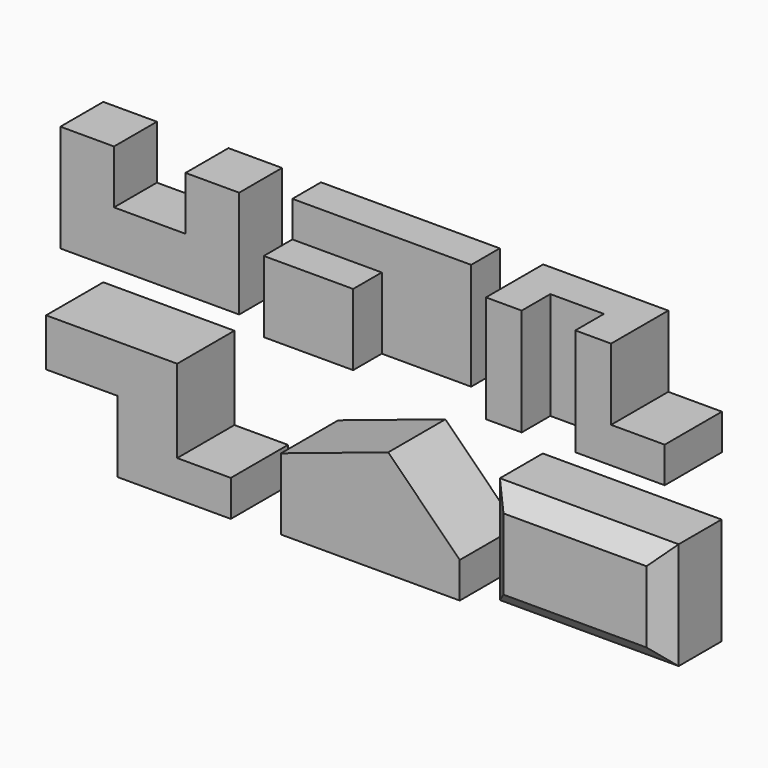
from build123d import *

# Parameters (mm, degrees)
F1_DEPTH  = 76.2
F2_W      = 254
F2_H      = 152.4
F3_DEPTH  = 101.6
F5_DEPTH  = 50.8
F6_W      = 76.2
F6_H      = 101.6
F7_DEPTH  = 101.6
F8_W      = 76.2
F8_H      = 152.4
F9_DEPTH  = 50.8
F11_DEPTH = 101.6
F13_DEPTH = 101.6
F14_W     = 254
F14_H     = 152.4
F15_DEPTH = 101.6
F16_SIZE  = 25.4


with BuildPart() as f1:
    # F0 (on Front) → F1 (new body)
    with BuildSketch(Plane.XZ):
        Polygon((0, 152.4), (0, 0), (254, 0), (254, 152.4), (177.8, 152.4), (177.8, 76.2), (76.2, 76.2), (76.2, 152.4), align=None)
    extrude(amount=F1_DEPTH)


with BuildPart() as f3:
    # F2 (on Front) → F3 (new body)
    with BuildSketch(Plane.XZ):
        with Locations((436.282601, 76.2)):
            Rectangle(F2_W, F2_H)
    extrude(amount=F3_DEPTH)

    # F4 (on face) → F5 (cut)
    with BuildSketch(Plane.XZ.offset(101.6)):
        Polygon((309.282601, 152.4), (309.282601, 101.6), (436.282601, 101.6), (436.282601, 0), (563.282601, 0), (563.282601, 152.4), align=None)
    extrude(amount=-F5_DEPTH, mode=Mode.SUBTRACT)


with BuildPart() as f7:
    # F6 (on Front) → F7 (new body)
    with BuildSketch(Plane.XZ):
        Polygon((624.930065, 152.4), (624.930065, 0), (878.930065, 0), (878.930065, 50.8), (802.730065, 50.8), (802.730065, 152.4), (751.930065, 152.4), (751.930065, 50.8), (675.730065, 50.8), (675.730065, 152.4), align=None)
        with Locations((713.830065, 101.6)):
            Rectangle(F6_W, F6_H)
    extrude(amount=F7_DEPTH)

    # F8 (on face) → F9 (cut)
    with BuildSketch(Plane.XZ.offset(101.6)):
        with Locations((713.830065, 76.2)):
            Rectangle(F8_W, F8_H)
    extrude(amount=-F9_DEPTH, mode=Mode.SUBTRACT)


with BuildPart() as f11:
    # F10 (on Front) → F11 (new body)
    with BuildSketch(Plane.XZ):
        Polygon((186.266667, -73.233265), (0, -73.233265), (0, -140.966599), (101.6, -140.966599), (101.6, -242.566599), (262.466667, -242.566599), (262.466667, -191.234748), (186.266667, -191.234748), align=None)
    extrude(amount=F11_DEPTH)


with BuildPart() as f13:
    # F12 (on Front) → F13 (new body)
    with BuildSketch(Plane.XZ):
        Polygon((333.726231, -137.323639), (333.726231, -238.923639), (587.726231, -238.923639), (587.726231, -188.123639), (486.126231, -86.523639), align=None)
    extrude(amount=F13_DEPTH)


with BuildPart() as f15:
    # F14 (on Front) → F15 (new body)
    with BuildSketch(Plane.XZ):
        with Locations((751.454502, -160.465141)):
            Rectangle(F14_W, F14_H)
    extrude(amount=F15_DEPTH)

    # F16
    f16_edges = [f15.edges().sort_by_distance(p)[0] for p in [
        (624.454502, -101.6, -160.465141),
        (751.454502, -101.6, -236.665141),
        (878.454502, -101.6, -160.465141),
        (751.454502, -101.6, -84.265141),
    ]]
    chamfer(f16_edges, length=F16_SIZE)


solid = Compound([f1.part, f3.part, f7.part, f11.part, f13.part, f15.part])
